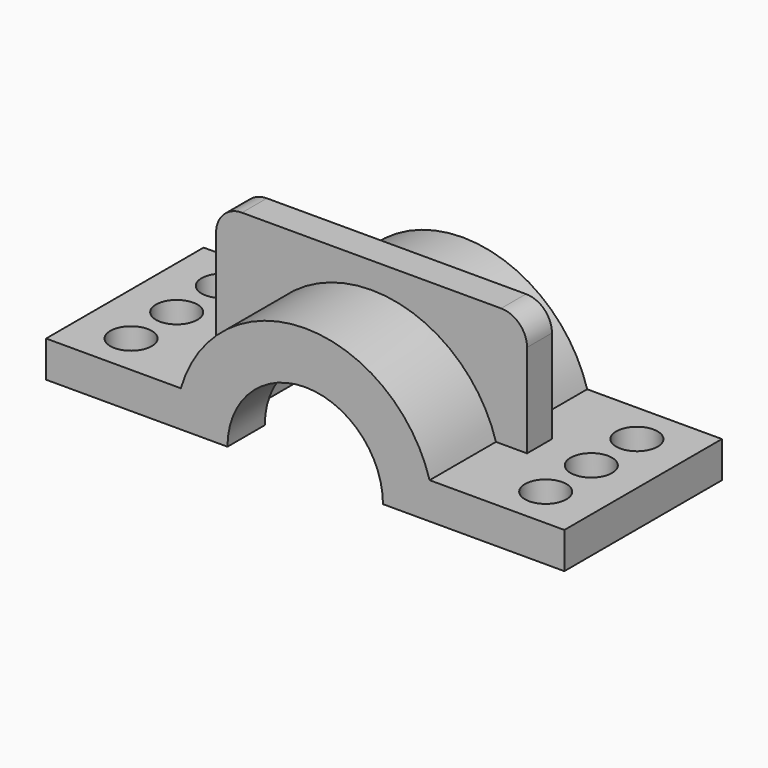
from build123d import *

# Parameters (mm, degrees)
F1_DEPTH = 19
F2_R     = 20
F3_DEPTH = 10
F5_DEPTH = 3
F6_R     = 4
F7_DEPTH = 7


with BuildPart() as f1:
    # F0 (on Front) → F1 (new body, symmetric)
    with BuildSketch(Plane.XZ):
        with BuildLine():
            ThreePointArc((-15, 0), (0, 15), (15, 0))
            Line((15, 0), (50, 0))
            Line((50, 0), (50, 7))
            Line((50, 7), (24, 7))
            ThreePointArc((24, 7), (0, 25), (-24, 7))
            Line((-24, 7), (-50, 7))
            Line((-50, 7), (-50, 0))
            Line((-50, 0), (-15, 0))
        make_face()
    extrude(amount=F1_DEPTH, both=True)

    # F2 (on Front) → F3 (cut, symmetric)
    with BuildSketch(Plane.XZ):
        Circle(F2_R)
    extrude(amount=F3_DEPTH, both=True, mode=Mode.SUBTRACT)

    # F4 (on Front) → F5 (join, symmetric)
    with BuildSketch(Plane.XZ):
        with BuildLine():
            Line((-30, 25), (-30, 7))
            Line((-30, 7), (-24, 7))
            ThreePointArc((-24, 7), (0, 25), (24, 7))
            Line((24, 7), (30, 7))
            Line((30, 7), (30, 25))
            ThreePointArc((30, 25), (28.535534, 28.535534), (25, 30))
            Line((25, 30), (-25, 30))
            ThreePointArc((-25, 30), (-28.535534, 28.535534), (-30, 25))
        make_face()
    extrude(amount=F5_DEPTH, both=True)

    # F6 (on face) → F7 (cut, through all)
    with BuildSketch(Plane.XY.offset(7)):
        with Locations((-40, -11)):
            Circle(F6_R)
        with Locations((40, -11)):
            Circle(F6_R)
        with Locations((-40, 0)):
            Circle(F6_R)
        with Locations((40, 0)):
            Circle(F6_R)
        with Locations((-40, 11)):
            Circle(F6_R)
        with Locations((40, 11)):
            Circle(F6_R)
    extrude(amount=-F7_DEPTH, mode=Mode.SUBTRACT)


solid = f1.part
